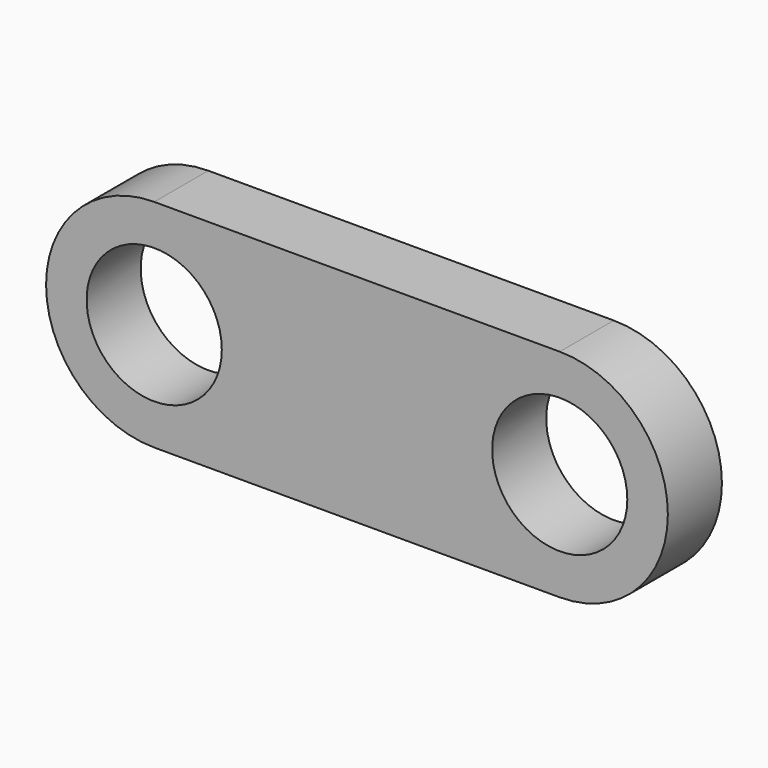
from build123d import *

# Parameters (mm, degrees)
F1_DEPTH = 127
F2_R     = 127
F3_DEPTH = 322.58


with BuildPart() as f1:
    # F0 (on Front) → F1 (new body)
    with BuildSketch(Plane.XZ):
        with BuildLine():
            Line((381, 203.2), (-381, 203.2))
            Line((-381, 203.2), (-381, -203.2))
            Line((-381, -203.2), (381, -203.2))
            ThreePointArc((381, -203.2), (584.2, 0), (381, 203.2))
        make_face()
        with BuildLine():
            Line((-381, -203.2), (-381, 203.2))
            ThreePointArc((-381, 203.2), (-584.2, 0), (-381, -203.2))
        make_face()
    extrude(amount=F1_DEPTH)

    # F2 (on face) → F3 (cut)
    with BuildSketch(Plane.XZ.offset(127)):
        with Locations((381, 0)):
            Circle(F2_R)
        with Locations((-381, 0)):
            Circle(F2_R)
    extrude(amount=-F3_DEPTH, mode=Mode.SUBTRACT)


solid = f1.part
